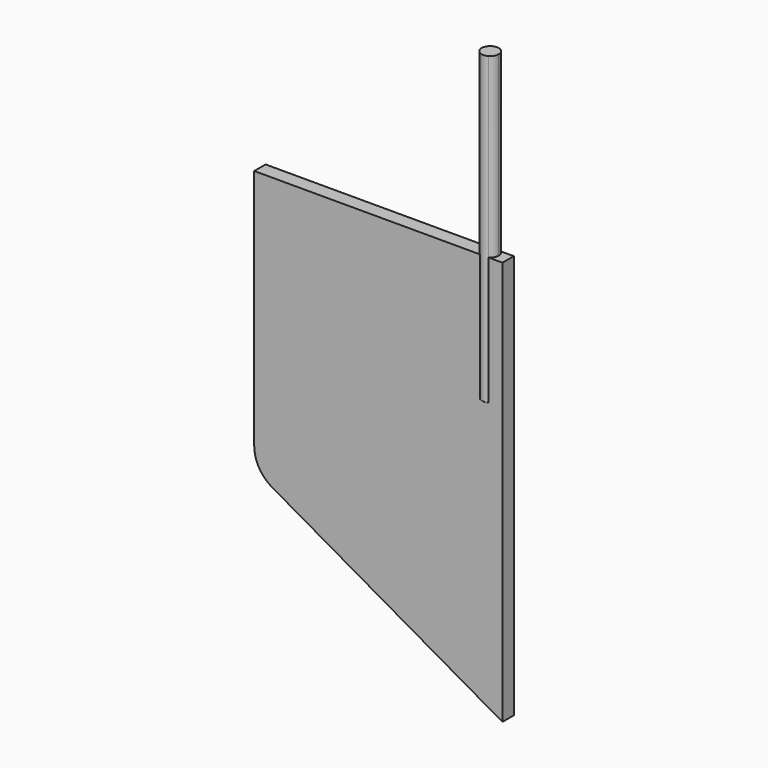
from build123d import *

# Parameters (mm, degrees)
F1_DEPTH = 2
F3_DEPTH = 18
F4_DEPTH = 25
F5_DEPTH = 25
F6_R     = 5


with BuildPart() as f1:
    # F0 (on Front) → F1 (new body)
    with BuildSketch(Plane.XZ):
        Polygon((0, -26.3405761516), (0, 30.6594238484), (-35, 30.6594238484), (-35, -6.3405761516), align=None)
    extrude(amount=F1_DEPTH)

    # F2 (on face) → F3 (join)
    with BuildSketch(Plane.XY.offset(30.6594238484)):
        with BuildLine():
            Line((-3.2919103401, 0), (-1.8350348686, 0))
            ThreePointArc((-1.8350348686, 0), (-2.5634726044, 0.246386627), (-3.2919103401, 0))
        make_face()
        with BuildLine():
            ThreePointArc((-3.1509034742, -2), (-2.5634726044, -2.153613373), (-1.9760417346, -2))
            Line((-1.9760417346, -2), (-3.1509034742, -2))
        make_face()
    extrude(amount=-F3_DEPTH)

    # F2 (on face) → F4 (join)
    with BuildSketch(Plane.XY.offset(30.6594238484)):
        with BuildLine():
            ThreePointArc((-1.9760417346, -2), (-1.5278768715, -1.5598653652), (-1.3634726044, -0.953613373))
            ThreePointArc((-1.3634726044, -0.953613373), (-1.4878041418, -0.4216948092), (-1.8350348686, 0))
            Line((-1.8350348686, 0), (-3.2919103401, 0))
            ThreePointArc((-3.2919103401, 0), (-3.7605012368, -1.0380080009), (-3.1509034742, -2))
            Line((-3.1509034742, -2), (-1.9760417346, -2))
        make_face()
    extrude(amount=F4_DEPTH)

    # F2 (on face) → F5 (join)
    with BuildSketch(Plane.XY.offset(30.6594238484)):
        with BuildLine():
            ThreePointArc((-3.1509034742, -2), (-2.5634726044, -2.153613373), (-1.9760417346, -2))
            Line((-1.9760417346, -2), (-3.1509034742, -2))
        make_face()
        with BuildLine():
            Line((-3.2919103401, 0), (-1.8350348686, 0))
            ThreePointArc((-1.8350348686, 0), (-2.5634726044, 0.246386627), (-3.2919103401, 0))
        make_face()
    extrude(amount=F5_DEPTH)

    # F6
    f6_edges = [f1.edges().sort_by_distance(p)[0] for p in [
        (-35, -1, -6.340576),
    ]]
    fillet(f6_edges, radius=F6_R)


solid = f1.part
